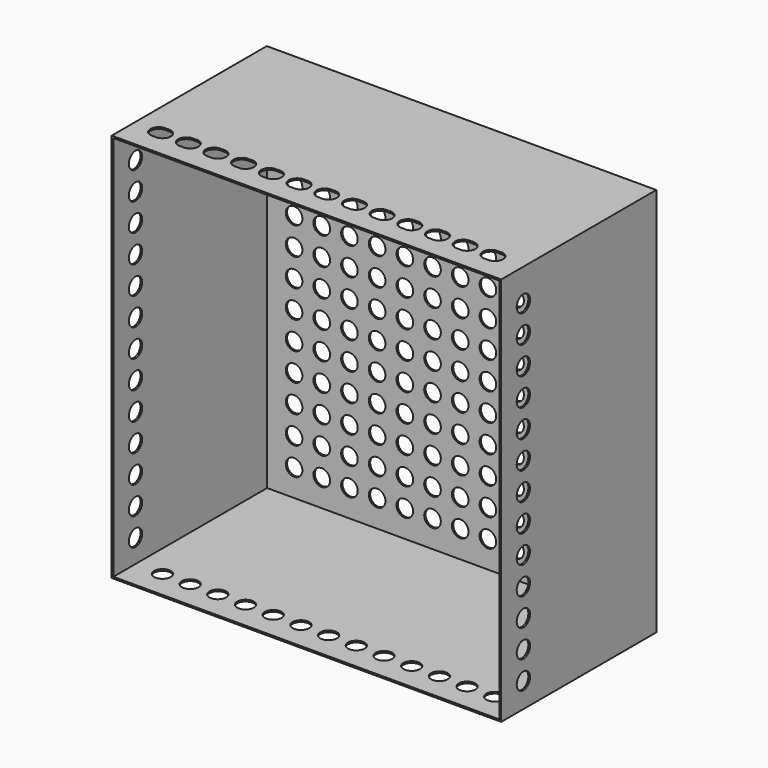
from build123d import *

# Parameters (mm, degrees)
F0_W      = 70.33
F0_H      = 70.33
F1_DEPTH  = 35
F2_T      = -0.3
F3_D      = 3
F3_DEPTH  = 1
F3_TIP    = 0.9012909285
F4_D      = 3
F4_DEPTH  = 1
F4_TIP    = 0.9012909285
F7_D      = 3
F7_DEPTH  = 1
F7_TIP    = 0.9012909285
F10_D     = 3
F10_DEPTH = 1
F10_TIP   = 0.9012909285
F12_D     = 3
F15_D     = 3


with BuildPart() as f1:
    # F0 (on Front) → F1 (new body)
    with BuildSketch(Plane.XZ):
        Rectangle(F0_W, F0_H)
    extrude(amount=F1_DEPTH)

    # F2
    f2_openings = [f1.faces().sort_by_distance(p)[0] for p in [
        (0, -35, 0),
    ]]
    offset(amount=F2_T, openings=f2_openings)

    # F3
    with Locations(Plane(origin=(0, 0, 0), x_dir=(1, 0, 0), z_dir=(0, 1, 0))):
        with Locations((30, -30), (20, -15), (10, -20), (15, -25), (15, -20), (15, -30), (5, -30), (5, -15), (20, -25), (10, -15), (20, -30), (15, -15), (10, -25), (25, -20), (5, -20), (25, -25), (10, -30), (25, -15), (20, -20), (5, -25), (25, -30), (30, -20), (30, -15), (30, -5), (30, -10), (30, 0), (30, -25), (30, 15), (30, 10), (30, 5), (30, 25), (30, 20), (10, 25), (15, 25), (5, 5), (5, 20), (25, -10), (25, -5), (25, 15), (25, 20), (15, 20), (15, -5), (5, 0), (5, 30), (20, 25), (20, 0), (15, 10), (20, 20), (25, 25), (20, -10), (5, 10), (10, 15), (10, -5), (15, -10), (15, 30), (25, 5), (15, 0), (20, 15), (10, 5), (5, 15), (25, 30), (10, 20), (10, -10), (20, 5), (25, 0), (10, 0), (20, -5), (10, 30), (10, 10), (5, 25), (15, 5), (25, 10), (20, 30), (5, -5), (5, -10), (15, 15), (20, 10), (0, 15), (30, 30), (-25, 15), (-20, 15), (-5, 15), (-30, 15), (-15, 15), (-10, 15), (-10, 20), (-20, 20), (-5, 20), (-25, 20), (-30, 20), (0, 20), (-15, 20), (0, 25), (-20, 25), (-15, 25), (-30, 25), (-5, 25), (-25, 25), (-10, 25)):
            Hole(F3_D / 2, depth=F3_DEPTH)
            with Locations((0, 0, -(F3_DEPTH + F3_TIP / 2))):  # 118° drill point
                Cone(0, F3_D / 2, F3_TIP, mode=Mode.SUBTRACT)

    # F4
    with Locations(Plane(origin=(0, 0, 0), x_dir=(1, 0, 0), z_dir=(0, 1, 0))):
        with Locations((-15, -30), (-20, -30), (0, -30), (-30, -30), (-5, -30), (-25, -30), (-10, -30), (0, -25), (-25, -25), (-5, -25), (-20, -25), (-15, -25), (-30, -25), (-10, -25), (-5, -20), (0, -20), (-15, -20), (-10, -20), (-20, -20), (-30, -20), (-25, -20), (-20, -15), (-30, -15), (0, -15), (-5, -15), (-15, -15), (-25, -15), (-10, -15), (-15, -10), (-20, -10), (-25, -10), (-5, -10), (0, -10), (-10, -10), (-30, -10), (-5, -5), (-20, -5), (-10, -5), (0, -5), (-25, -5), (-30, -5), (-15, -5), (-5, 0), (-25, 0), (-15, 0), (0, 0), (-30, 0), (-20, 0), (-10, 0), (-30, 10), (-25, 10), (-20, 10), (-20, 5), (0, 5), (-15, 5), (-30, 5), (-15, 10), (-10, 5), (-10, 10), (0, 10), (-25, 5), (-5, 5), (-5, 10), (-20, 30), (-10, 30), (-25, 30), (-5, 30), (-15, 30), (0, 30), (-30, 30)):
            Hole(F4_D / 2, depth=F4_DEPTH)
            with Locations((0, 0, -(F4_DEPTH + F4_TIP / 2))):  # 118° drill point
                Cone(0, F4_D / 2, F4_TIP, mode=Mode.SUBTRACT)

    # F7
    with Locations(Plane(origin=(-35.165, 0, 0), x_dir=(0, -1, 0), z_dir=(-1, 0, 0))):
        with Locations((30, -30.675), (30, -25.675), (30, -20.675), (30, -15.675), (30, -10.675), (30, -5.675), (30, -0.675), (30, 4.325), (30, 9.325), (30, 14.325), (30, 19.325), (30, 24.325), (30, 29.325)):
            Hole(F7_D / 2, depth=F7_DEPTH)
            with Locations((0, 0, -(F7_DEPTH + F7_TIP / 2))):  # 118° drill point
                Cone(0, F7_D / 2, F7_TIP, mode=Mode.SUBTRACT)

    # F10
    with Locations(Plane.XY.offset(35.165)):
        with Locations((24.325, -30), (29.325, -30), (19.325, -30), (9.325, -30), (14.325, -30), (-0.675, -30), (4.325, -30), (-10.675, -30), (-20.675, -30), (-5.675, -30), (-15.675, -30), (-30.675, -30), (-25.675, -30)):
            Hole(F10_D / 2, depth=F10_DEPTH)
            with Locations((0, 0, -(F10_DEPTH + F10_TIP / 2))):  # 118° drill point
                Cone(0, F10_D / 2, F10_TIP, mode=Mode.SUBTRACT)

    # F12 (through all)
    with Locations(Plane(origin=(-35.165, 0, 0), x_dir=(0, -1, 0), z_dir=(-1, 0, 0))):
        with Locations((30, 29.325), (30, 24.325), (30, 14.325), (30, 19.325), (30, 9.325), (30, 4.325), (30, -0.675), (30, -5.675), (30, -20.675), (30, -15.675), (30, -25.675), (30, -10.675), (30, -30.675)):
            Hole(F12_D / 2)

    # F15 (through all)
    with Locations(Plane(origin=(0, 0, -35.165), x_dir=(1, 0, 0), z_dir=(0, 0, -1))):
        with Locations((30, 30), (20, 30), (10, 30), (25, 30), (0, 30), (15, 30), (5, 30), (-10, 30), (-5, 30), (-15, 30), (-25, 30), (-20, 30), (-30, 30)):
            Hole(F15_D / 2)


with BuildPart() as f16_1:
    # F16: copy of F1
    add(f1.part)


solid = f1.part
